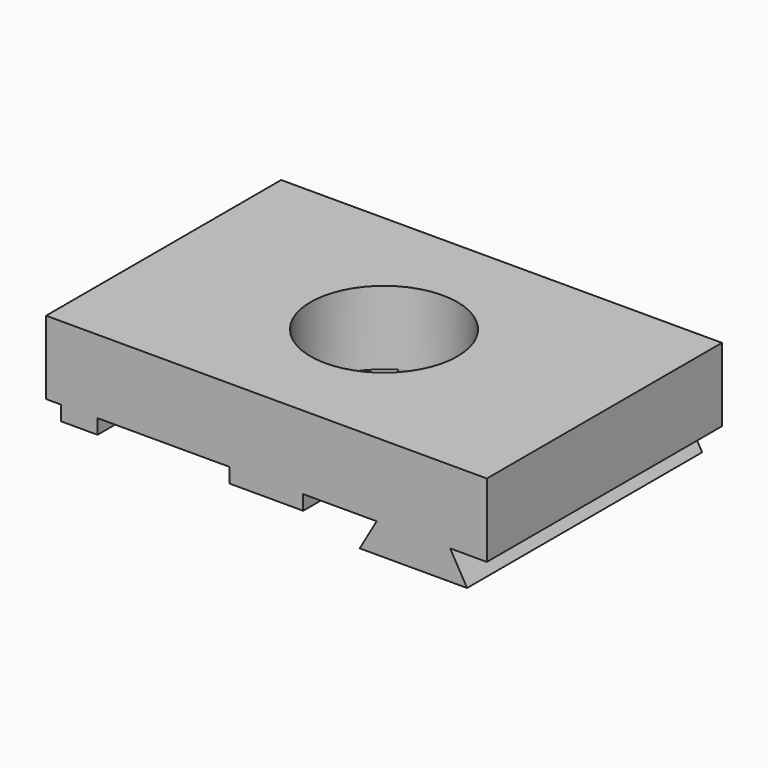
from build123d import *

# Parameters (mm, degrees)
F0_W     = 76.2
F0_H     = 50.8
F0_R     = 12.7
F1_DEPTH = 12.7
F2_W     = 6.35
F2_H     = 50.8
F3_DEPTH = 15.24
F5_DEPTH = 50.8


with BuildPart() as f1:
    # F0 (on Top) → F1 (new body)
    with BuildSketch(Plane.XY):
        Rectangle(F0_W, F0_H)
        Circle(F0_R, mode=Mode.SUBTRACT)
    extrude(amount=F1_DEPTH)

    # F2 (on face) → F3 (join)
    with BuildSketch(Plane.XY.offset(12.7)):
        with Locations((-32.385, 0)):
            Rectangle(F2_W, F2_H)
        with BuildLine():
            Line((-6.35, -10.998523), (-6.35, -25.4))
            Line((-6.35, -25.4), (6.35, -25.4))
            Line((6.35, -25.4), (6.35, -10.998523))
            ThreePointArc((6.35, -10.998523), (0, -12.7), (-6.35, -10.998523))
        make_face()
        with BuildLine():
            Line((6.35, 25.4), (-6.35, 25.4))
            Line((-6.35, 25.4), (-6.35, 10.998523))
            ThreePointArc((-6.35, 10.998523), (0, 12.7), (6.35, 10.998523))
            Line((6.35, 10.998523), (6.35, 25.4))
        make_face()
    extrude(amount=-F3_DEPTH)

    # F4 (on face) → F5 (join)
    with BuildSketch(Plane.XZ.offset(25.4)):
        Polygon((31.75, 0), (19.05, 0), (16.117061, -5.08), (34.682939, -5.08), align=None)
    extrude(amount=-F5_DEPTH)


solid = f1.part
